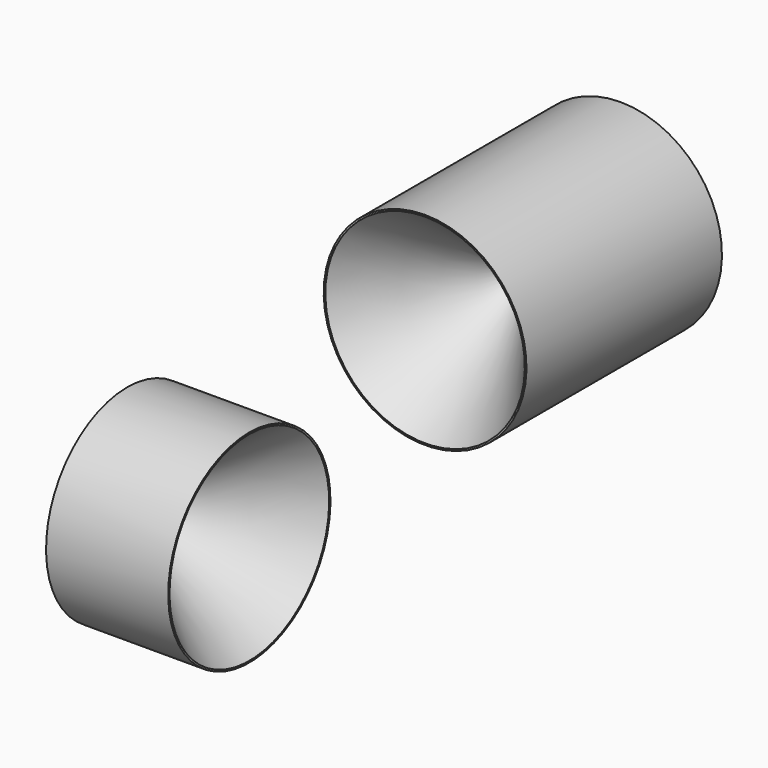
from build123d import *


with BuildPart() as f1:
    # F0 (on Right) → F1 (revolve)
    with BuildSketch(Plane.YZ):
        Polygon((18.420085, 23.34749), (33.420085, 12.09749), (48.420085, 23.34749), (48.420085, 23.54749), (18.420085, 23.54749), align=None)
    revolve(axis=Axis((0, 30.725388, 11.09749), (0, -1, 0)))


with BuildPart() as f3:
    # F2 (on Front) → F3 (revolve)
    with BuildSketch(Plane.XZ):
        Polygon((-6.843457, 5.301776), (-21.843457, 5.301776), (-21.843457, -6.148224), (-6.843457, 5.101776), align=None)
    revolve(axis=Axis((-15.019601, 0, -7.148224), (1, 0, 0)))


solid = Compound([f1.part, f3.part])
